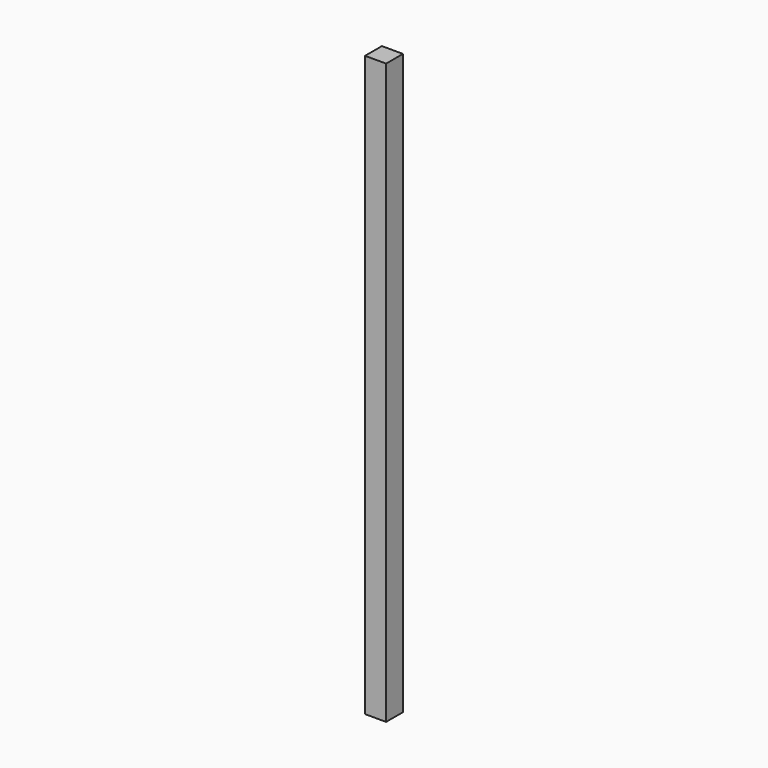
from build123d import *

# Parameters (mm, degrees)
SKETCH_W  = 20
SKETCH_H  = 20
PAD_DEPTH = 550


with BuildPart() as part:
    # Sketch → Pad (new body)
    with BuildSketch(Plane.XY):
        with Locations((10, -10)):
            Rectangle(SKETCH_W, SKETCH_H)
    extrude(amount=PAD_DEPTH)


solid = part.part
